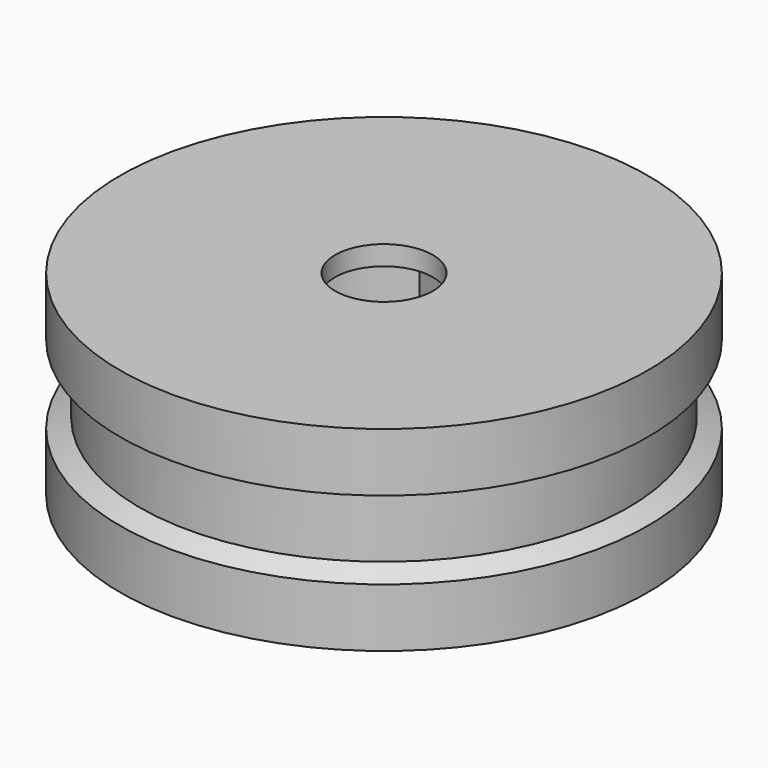
from build123d import *

# Parameters (mm, degrees)
PAD_DEPTH     = 5
SKETCH003_R   = 8.028816
SKETCH003_R_2 = 2.5
PAD001_DEPTH  = 1


with BuildPart() as part:
    # Sketch → Pad (new body, symmetric)
    with BuildSketch(Plane.XY):
        with BuildLine():
            ThreePointArc((0, -4.65), (4.573728, -0.838758), (1.65, 4.347413))
            Line((1.65, 6.25), (1.65, 4.347413))
            Line((0, 6.25), (1.65, 6.25))
            Line((0, 13.5), (0, 6.25))
            ThreePointArc((0, -13.5), (13.5, 0), (0, 13.5))
            Line((0, -4.65), (0, -13.5))
        make_face()
    pad = extrude(amount=PAD_DEPTH, both=True)

    # Mirrored: Pad across Sketch V_Axis
    add(pad.mirror(Plane(origin=(0, 0, 0), x_dir=(0, 0, 1), z_dir=(1, 0, 0))))

    # Sketch001 → Groove (revolve, cut)
    with BuildSketch(Plane.YZ):
        Polygon((13.5, 0), (13.5, 2), (12.5, 1.5), (12.5, 0), align=None)
    groove = revolve(axis=Axis((0, 0, 0), (0, 0, 1)), mode=Mode.SUBTRACT)

    # Mirrored001: Groove across Sketch001 H_Axis
    add(groove.mirror(Plane.XY), mode=Mode.SUBTRACT)

    # Sketch003 → Pad001 (join)
    with BuildSketch(Plane.XY.offset(5)):
        Circle(SKETCH003_R)
        Circle(SKETCH003_R_2, mode=Mode.SUBTRACT)
    extrude(amount=-PAD001_DEPTH)


solid = part.part
